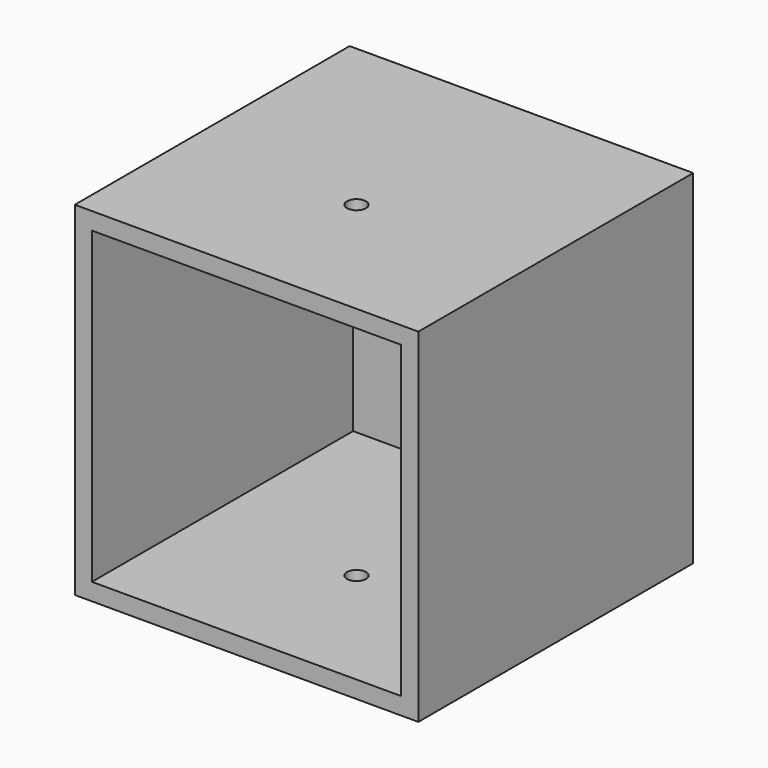
from build123d import *

# Parameters (mm, degrees)
F0_W     = 100
F0_H     = 100
F1_DEPTH = 100
F2_T     = -5
F4_D     = 5.5


with BuildPart() as f1:
    # F0 (on Top) → F1 (new body)
    with BuildSketch(Plane.XY):
        Rectangle(F0_W, F0_H)
    extrude(amount=F1_DEPTH)

    # F2
    f2_openings = [f1.faces().sort_by_distance(p)[0] for p in [
        (0, -50, 50),
    ]]
    offset(amount=F2_T, openings=f2_openings)

    # F4 (through all)
    with Locations(Plane.XY.offset(100)):
        with Locations((0, -10)):
            Hole(F4_D / 2)


solid = f1.part
